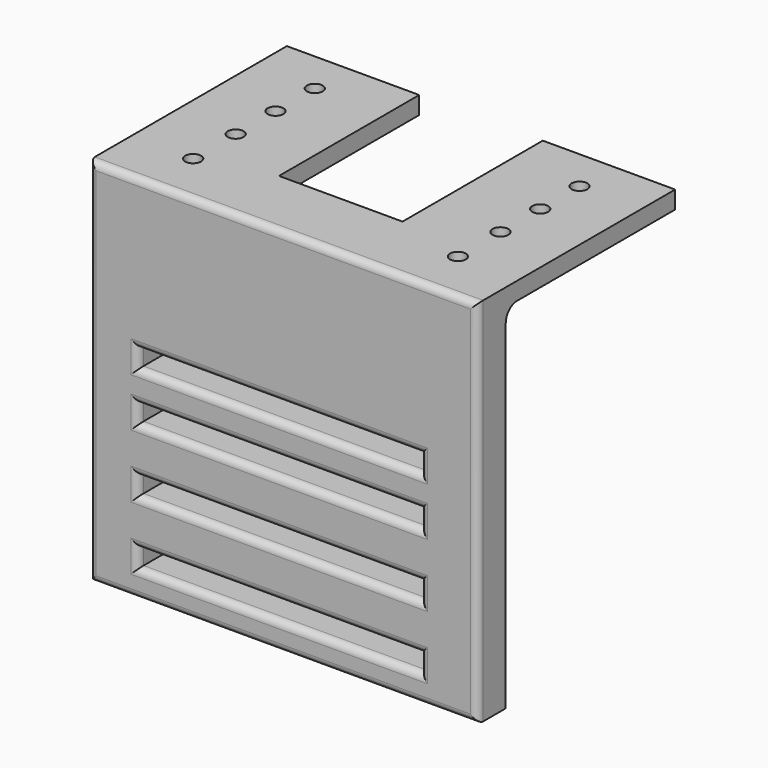
from build123d import *

# Parameters (mm, degrees)
SKETCH_R        = 2.25
PAD_DEPTH       = 5
SKETCH001_R     = 3
POCKET_DEPTH    = 2
SKETCH002_W     = 10
SKETCH002_H     = 100
PAD001_DEPTH    = 110
FILLET_R        = 4
SKETCH003_W     = 80
SKETCH003_H     = 5
POCKET001_DEPTH = 70.001
FILLET001_R     = 2


with BuildPart() as part:
    # Sketch (on XY_Plane of Origin) → Pad (new body)
    with BuildSketch(Plane.XY):
        Polygon((-55, 40), (-55, -30), (55, -30), (55, 40), (17.5, 40), (17.5, -9.659887), (-17.5, -9.659887), (-17.5, 40), align=None)
        with Locations((-37.5, 0)):
            Circle(SKETCH_R, mode=Mode.SUBTRACT)
        with Locations((37.5, 0)):
            Circle(SKETCH_R, mode=Mode.SUBTRACT)
        with Locations((-37.5, 14.09116)):
            Circle(SKETCH_R, mode=Mode.SUBTRACT)
        with Locations((37.5, 14.09116)):
            Circle(SKETCH_R, mode=Mode.SUBTRACT)
        with Locations((-37.5, -15.058182)):
            Circle(SKETCH_R, mode=Mode.SUBTRACT)
        with Locations((37.5, -15.058182)):
            Circle(SKETCH_R, mode=Mode.SUBTRACT)
        with Locations((-37.5, 28.008329)):
            Circle(SKETCH_R, mode=Mode.SUBTRACT)
        with Locations((37.5, 28.008329)):
            Circle(SKETCH_R, mode=Mode.SUBTRACT)
    extrude(amount=PAD_DEPTH)

    # Sketch001 (on XY_Plane of Origin) → Pocket (cut)
    with BuildSketch(Plane.XY):
        with Locations((-37.5, 14.09116)):
            Circle(SKETCH001_R)
        with Locations((-37.5, 0)):
            Circle(SKETCH001_R)
        with Locations((-37.5, -15.058182)):
            Circle(SKETCH001_R)
        with Locations((37.5, 14.09116)):
            Circle(SKETCH001_R)
        with Locations((37.5, 0)):
            Circle(SKETCH001_R)
        with Locations((37.5, -15.058182)):
            Circle(SKETCH001_R)
        with Locations((-37.5, 28.008329)):
            Circle(SKETCH001_R)
        with Locations((37.5, 28.008329)):
            Circle(SKETCH001_R)
    extrude(amount=POCKET_DEPTH, mode=Mode.SUBTRACT)

    # Sketch002 (on Face7 of Pocket) → Pad001 (join)
    with BuildSketch(Plane.YZ.offset(55)):
        with Locations((-25, -50)):
            Rectangle(SKETCH002_W, SKETCH002_H)
    extrude(amount=-PAD001_DEPTH)

    # Fillet
    fillet_edges = [part.edges().sort_by_distance(p)[0] for p in [
        (0, -20, 0),
    ]]
    fillet(fillet_edges, radius=FILLET_R)

    # Sketch003 (on Face22 of Fillet) → Pocket001 (cut, through all)
    with BuildSketch(Plane.XZ.offset(30)):
        with Locations((-1.180287, -53.94736)):
            Rectangle(SKETCH003_W, SKETCH003_H)
        with Locations((-1.180287, -40.150993)):
            Rectangle(SKETCH003_W, SKETCH003_H)
        with Locations((-1.180287, -71.923223)):
            Rectangle(SKETCH003_W, SKETCH003_H)
        with Locations((-1.180287, -89.899086)):
            Rectangle(SKETCH003_W, SKETCH003_H)
    extrude(amount=-POCKET001_DEPTH, mode=Mode.SUBTRACT)

    # Fillet001
    fillet001_edges = [part.edges().sort_by_distance(p)[0] for p in [
        (-55, -30, -47.5),
        (0, -30, 5),
        (0, -30, -100),
        (55, -30, -47.5),
        (-41.180287, -30, -53.94736),
        (-1.180287, -30, -56.44736),
        (38.819713, -30, -53.94736),
        (-1.180287, -30, -51.44736),
        (-41.180287, -30, -40.150993),
        (-1.180287, -30, -42.650993),
        (38.819713, -30, -40.150993),
        (-1.180287, -30, -37.650993),
        (-41.180287, -30, -71.923223),
        (-1.180287, -30, -74.423223),
        (38.819713, -30, -71.923223),
        (-1.180287, -30, -69.423223),
        (-41.180287, -30, -89.899086),
        (-1.180287, -30, -92.399086),
        (38.819713, -30, -89.899086),
        (-1.180287, -30, -87.399086),
    ]]
    fillet(fillet001_edges, radius=FILLET001_R)


solid = part.part
